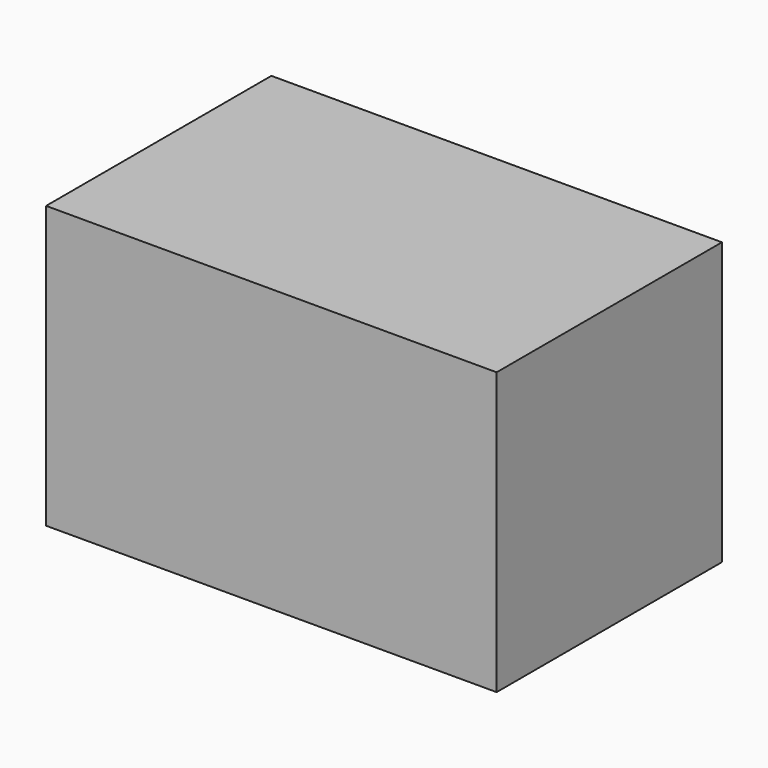
from build123d import *

# Parameters (mm, degrees)
F0_W     = 101.6
F0_H     = 63.5
F1_DEPTH = 127
F2_DEPTH = 127


with BuildPart() as f1:
    # F0 (on Top) → F1 (new body)
    with BuildSketch(Plane.XY):
        with Locations((-50.8, 31.75)):
            Rectangle(F0_W, F0_H)
        with Locations((-50.8, -31.75)):
            Rectangle(F0_W, F0_H)
    extrude(amount=F1_DEPTH)

    # F0 (on Top) → F2 (join)
    with BuildSketch(Plane.XY):
        with Locations((50.8, 31.75)):
            Rectangle(F0_W, F0_H)
        with Locations((50.8, -31.75)):
            Rectangle(F0_W, F0_H)
    extrude(amount=F2_DEPTH)


solid = f1.part
